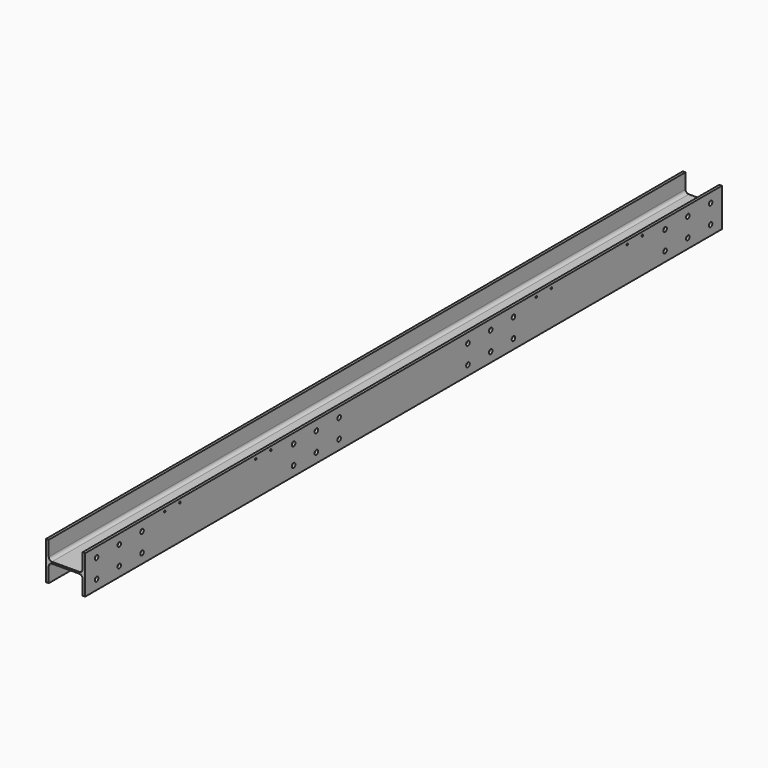
from build123d import *

# Parameters (mm, degrees)
F1_DEPTH = 2133.6
F3_D     = 23.8125
F3_DEPTH = 104.776
F5_D     = 17.4625
F6_D     = 9.8044
F6_DEPTH = 104.776


with BuildPart() as f1:
    # F0 (on Front) → F1 (new body, symmetric)
    with BuildSketch(Plane.XZ):
        with BuildLine():
            Line((90.551, -102.489), (104.775, -102.489))
            Line((104.775, -102.489), (104.775, 102.489))
            Line((104.775, 102.489), (90.551, 102.489))
            Line((90.551, 102.489), (90.551, 22.098))
            ThreePointArc((90.551, 22.098), (85.4177534471, 9.7052465529), (73.025, 4.572))
            Line((73.025, 4.572), (-73.025, 4.572))
            ThreePointArc((-73.025, 4.572), (-85.4177534471, 9.7052465529), (-90.551, 22.098))
            Line((-90.551, 22.098), (-90.551, 102.489))
            Line((-90.551, 102.489), (-104.775, 102.489))
            Line((-104.775, 102.489), (-104.775, -102.489))
            Line((-104.775, -102.489), (-90.551, -102.489))
            Line((-90.551, -102.489), (-90.551, -22.098))
            ThreePointArc((-90.551, -22.098), (-85.4177534471, -9.7052465529), (-73.025, -4.572))
            Line((-73.025, -4.572), (73.025, -4.572))
            ThreePointArc((73.025, -4.572), (85.4177534471, -9.7052465529), (90.551, -22.098))
            Line((90.551, -22.098), (90.551, -102.489))
        make_face()
    extrude(amount=F1_DEPTH, both=True)

    # F3 (through all, one way)
    with BuildSketch(Plane(origin=(0, 0, 0), x_dir=(0, 1, 0), z_dir=(-1, 0, 0))):
        with Locations((-2057.4, -50.8), (-1905, -50.8), (-1752.6, -50.8), (-2057.4, 50.8), (-1905, 50.8), (-1752.6, 50.8), (-736.6, -50.8), (-584.2, -50.8), (-431.8, -50.8), (-736.6, 50.8), (-584.2, 50.8), (-431.8, 50.8), (431.8, -50.8), (584.2, -50.8), (736.6, -50.8), (431.8, 50.8), (584.2, 50.8), (736.6, 50.8), (1752.6, -50.8), (1905, -50.8), (2057.4, -50.8), (1752.6, 50.8), (1905, 50.8), (2057.4, 50.8)):
            Circle(F3_D / 2)
    extrude(amount=-F3_DEPTH, mode=Mode.SUBTRACT)

    # F5 (through all)
    with Locations(Plane.XY.offset(4.572)):
        with Locations((0, -1981.2), (0, -990.6), (0, 0), (0, 990.6), (0, 1981.2)):
            Hole(F5_D / 2)

    # F6 (through all, one way)
    with BuildSketch(Plane(origin=(0, 0, 0), x_dir=(0, 1, 0), z_dir=(-1, 0, 0))):
        with Locations((-1600.2, -83.439), (-1498.6, -83.439), (-990.6, -83.439), (-889, -83.439), (889, -83.439), (990.6, -83.439), (1498.6, -83.439), (1600.2, -83.439)):
            Circle(F6_D / 2)
    extrude(amount=-F6_DEPTH, mode=Mode.SUBTRACT)


solid = f1.part
